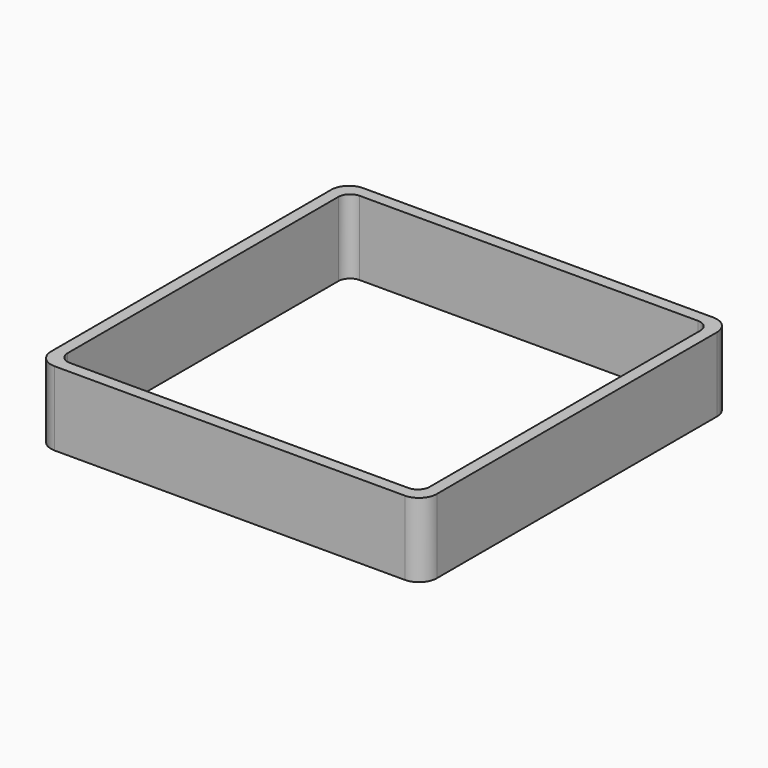
from build123d import *

# Parameters (mm, degrees)
EXTRUDE_DEPTH = 50


with BuildPart() as part:
    # Sketch → Extrude (new body)
    with BuildSketch(Plane.XY):
        with BuildLine():
            Line((-118, 130), (118, 130))
            ThreePointArc((130, 118), (126.485281, 126.485281), (118, 130))
            Line((130, 118), (130, -118))
            ThreePointArc((118, -130), (126.485281, -126.485281), (130, -118))
            Line((118, -130), (-118, -130))
            ThreePointArc((-130, -118), (-126.485281, -126.485281), (-118, -130))
            Line((-130, -118), (-130, 118))
            ThreePointArc((-118, 130), (-126.485281, 126.485281), (-130, 118))
        make_face()
        with BuildLine():
            Line((-114, 122), (114, 122))
            ThreePointArc((122, 114), (119.656854, 119.656854), (114, 122))
            Line((122, 114), (122, -114))
            ThreePointArc((114, -122), (119.656854, -119.656854), (122, -114))
            Line((114, -122), (-114, -122))
            ThreePointArc((-122, -114), (-119.656854, -119.656854), (-114, -122))
            Line((-122, -114), (-122, 114))
            ThreePointArc((-114, 122), (-119.656854, 119.656854), (-122, 114))
        make_face(mode=Mode.SUBTRACT)
    extrude(amount=EXTRUDE_DEPTH)


solid = part.part
